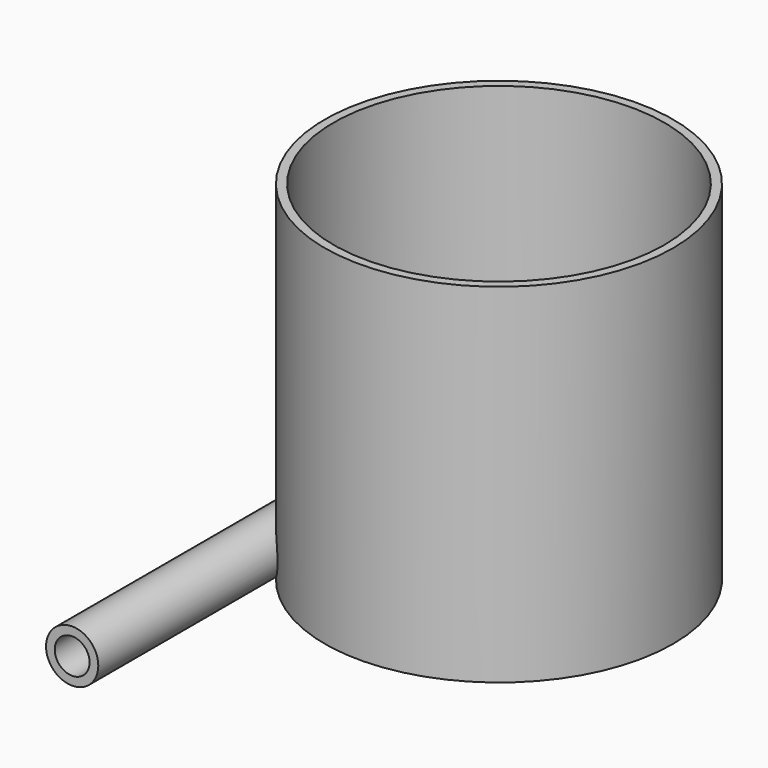
from build123d import *

# Parameters (mm, degrees)
F0_R     = 15
F0_R_2   = 10
F1_DEPTH = 200
F3_W     = 572.0791816711
F3_H     = 457.3649317026
F3_R     = 100
F4_DEPTH = 60
F6_R     = 95
F7_DEPTH = 5
F6_R_2   = 100
F8_DEPTH = 200
F9_D     = 20
F9_DEPTH = 200.0010001


with BuildPart() as f1:
    # F0 (on Front) → F1 (new body)
    with BuildSketch(Plane.XZ):
        with Locations((-85, 15)):
            Circle(F0_R)
        with Locations((-85, 15)):
            Circle(F0_R_2, mode=Mode.SUBTRACT)
    extrude(amount=F1_DEPTH)

    # F3 (on offset) → F4 (intersect)
    with BuildSketch(Plane.XY.offset(-20)):
        with Locations((-14.546662569, -7.4936076999)):
            Rectangle(F3_W, F3_H)
        Circle(F3_R, mode=Mode.SUBTRACT)
    extrude(amount=F4_DEPTH, mode=Mode.INTERSECT)



with BuildPart() as f7:
    # F6 (on Top) → F7 (new body)
    with BuildSketch(Plane.XY):
        Circle(F6_R)
    extrude(amount=F7_DEPTH)


with BuildPart() as f1_1:
    add(f1.part)

    add(f7.part)  # F8 merges F7
    # F6 (on Top) → F8 (join)
    with BuildSketch(Plane.XY):
        Circle(F6_R_2)
        Circle(F6_R, mode=Mode.SUBTRACT)
    extrude(amount=F8_DEPTH)

    # F9 (through all, one way)
    with BuildSketch(Plane(origin=(0, 0, 0), x_dir=(1, 0, 0), z_dir=(0, 1, 0))):
        with Locations((-85, -15)):
            Circle(F9_D / 2)
    extrude(amount=-F9_DEPTH, mode=Mode.SUBTRACT)


solid = f1_1.part
